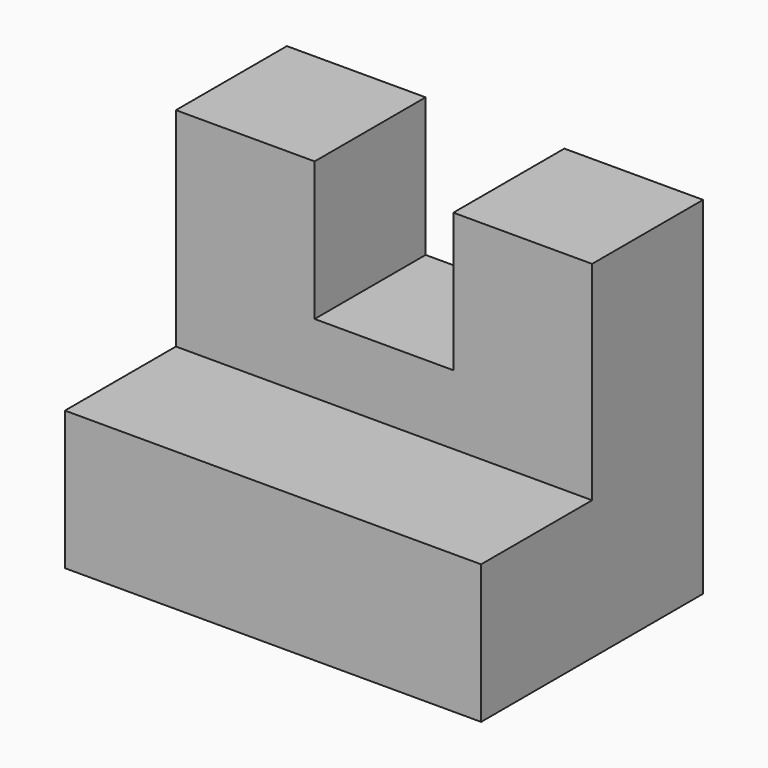
from build123d import *

# Parameters (mm, degrees)
F1_DEPTH = 25.4
F3_DEPTH = 12.7


with BuildPart() as f1:
    # F0 (on Front) → F1 (new body)
    with BuildSketch(Plane.XZ):
        Polygon((0, 31.75), (0, 0), (38.1, 0), (38.1, 31.75), (25.4, 31.75), (25.4, 19.05), (12.7, 19.05), (12.7, 31.75), align=None)
    extrude(amount=F1_DEPTH)

    # F2 (on face) → F3 (cut)
    with BuildSketch(Plane.XZ.offset(25.4)):
        Polygon((0, 31.75), (0, 12.7), (38.1, 12.7), (38.1, 31.75), (25.4, 31.75), (25.4, 19.05), (12.7, 19.05), (12.7, 31.75), align=None)
    extrude(amount=-F3_DEPTH, mode=Mode.SUBTRACT)


solid = f1.part
